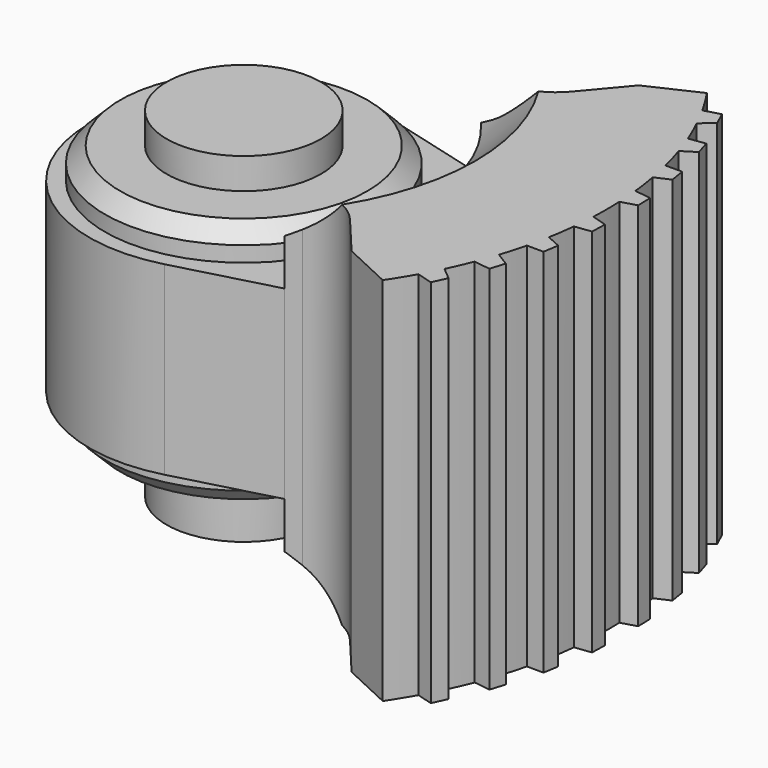
from build123d import *

# Parameters (mm, degrees)
F0_R      = 3.571875
F0_R_2    = 1.984375
F1_DEPTH  = 4.7625
F3_R      = 4.7625
F4_DEPTH  = 6.35
F7_R      = 4.7625
F8_DEPTH  = 4.29937
F9_R      = 3.571875
F10_DEPTH = 3.175
F11_R     = 1.984375
F12_DEPTH = 1.5875
F13_R     = 1.984375
F14_DEPTH = 2.38125
F15_R     = 1.5875
F16_DEPTH = 8.64375
F17_SIZE2 = 1.190625
F17_SIZE  = 1.190625
F18_SIZE2 = 1.190625
F18_SIZE  = 1.190625
F19_SIZE2 = 0.396875
F19_SIZE  = 0.396875
F20_SIZE2 = 0.396875
F20_SIZE  = 0.396875


with BuildPart() as f1:
    # F0 (on Top) → F1 (new body, symmetric)
    with BuildSketch(Plane.XY):
        with BuildLine():
            ThreePointArc((1.0271880853, 3.8335181231), (-3.96875, 0), (1.0271880853, -3.8335181231))
            ThreePointArc((1.0271880853, -3.8335181231), (3.1486210693, -2.4160219214), (3.96875, 0))
            ThreePointArc((3.96875, 0), (3.1486210693, 2.4160219214), (1.0271880853, 3.8335181231))
        make_face()
        Circle(F0_R, mode=Mode.SUBTRACT)
        Circle(F0_R)
        Circle(F0_R_2, mode=Mode.SUBTRACT)
        with BuildLine():
            ThreePointArc((3.5700563335, 3.1521586295), (4.7625, 0), (3.5700563335, -3.1521586295))
            Line((3.5700563335, -3.1521586295), (3.952808412, -3.0496005192))
            ThreePointArc((3.952808412, -3.0496005192), (4.8410541028, -3.0689821091), (5.5797791996, -3.562582438))
            Line((5.5797791996, -3.562582438), (6.4602323301, -4.6118656194))
            ThreePointArc((6.4602323301, -4.6118656194), (7.9375, 0), (6.4602323301, 4.6118656194))
            Line((6.4602323301, 4.6118656194), (5.5797791996, 3.562582438))
            ThreePointArc((5.5797791996, 3.562582438), (4.8410541028, 3.0689821091), (3.952808412, 3.0496005192))
            Line((3.952808412, 3.0496005192), (3.5700563335, 3.1521586295))
        make_face()
        with BuildLine():
            ThreePointArc((6.4602323301, 4.6118656194), (7.9375, 0), (6.4602323301, -4.6118656194))
            Line((6.4602323301, -4.6118656194), (7.7374098345, -5.2074232706))
            ThreePointArc((7.7374098345, -5.2074232706), (7.9432604057, -4.8876765639), (8.1359052848, -4.5598040816))
            ThreePointArc((8.1359052848, -4.5598040816), (8.2719379074, -4.3081099477), (8.4001864325, -4.0523617762))
            ThreePointArc((8.4001864325, -4.0523617762), (8.5434987657, -3.7407749072), (8.6752581872, -3.4241295905))
            ThreePointArc((8.6752581872, -3.4241295905), (8.7762030429, -3.1564264946), (8.8688892752, -2.8857531236))
            ThreePointArc((8.8688892752, -2.8857531236), (8.9689923796, -2.5577223777), (9.0569672002, -2.226232962))
            ThreePointArc((9.0569672002, -2.226232962), (9.1209899529, -1.9473855153), (9.1764296292, -1.6667055307))
            ThreePointArc((9.1764296292, -1.6667055307), (9.2315044647, -1.3281917728), (9.2740960354, -0.987881973))
            ThreePointArc((9.2740960354, -0.987881973), (9.3000332851, -0.7029572979), (9.3172189742, -0.4173711225))
            ThreePointArc((9.3172189742, -0.4173711225), (9.3265625, 0), (9.3172189742, 0.4173711225))
            ThreePointArc((9.3172189742, 0.4173711225), (9.3000332851, 0.7029572979), (9.2740960354, 0.987881973))
            ThreePointArc((9.2740960354, 0.987881973), (9.2315044647, 1.3281917728), (9.1764296292, 1.6667055307))
            ThreePointArc((9.1764296292, 1.6667055307), (9.1209899529, 1.9473855153), (9.0569672002, 2.226232962))
            ThreePointArc((9.0569672002, 2.226232962), (8.9689923796, 2.5577223777), (8.8688892752, 2.8857531236))
            ThreePointArc((8.8688892752, 2.8857531236), (8.7762030429, 3.1564264946), (8.6752581872, 3.4241295905))
            ThreePointArc((8.6752581872, 3.4241295905), (8.5434987657, 3.7407749072), (8.4001864325, 4.0523617762))
            ThreePointArc((8.4001864325, 4.0523617762), (8.2719379074, 4.3081099477), (8.1359052848, 4.5598040816))
            ThreePointArc((8.1359052848, 4.5598040816), (7.9432604057, 4.8876765639), (7.7374098345, 5.2074232706))
            Line((7.7374098345, 5.2074232706), (6.4602323301, 4.6118656194))
        make_face()
        with BuildLine():
            ThreePointArc((6.4602323301, 4.6118656194), (7.9375, 0), (6.4602323301, -4.6118656194))
            Line((6.4602323301, -4.6118656194), (7.7374098345, -5.2074232706))
            ThreePointArc((7.7374098345, -5.2074232706), (7.9432604057, -4.8876765639), (8.1359052848, -4.5598040816))
            ThreePointArc((8.1359052848, -4.5598040816), (8.2719379074, -4.3081099477), (8.4001864325, -4.0523617762))
            ThreePointArc((8.4001864325, -4.0523617762), (8.5434987657, -3.7407749072), (8.6752581872, -3.4241295905))
            ThreePointArc((8.6752581872, -3.4241295905), (8.7762030429, -3.1564264946), (8.8688892752, -2.8857531236))
            ThreePointArc((8.8688892752, -2.8857531236), (8.9689923796, -2.5577223777), (9.0569672002, -2.226232962))
            ThreePointArc((9.0569672002, -2.226232962), (9.1209899529, -1.9473855153), (9.1764296292, -1.6667055307))
            ThreePointArc((9.1764296292, -1.6667055307), (9.2315044647, -1.3281917728), (9.2740960354, -0.987881973))
            ThreePointArc((9.2740960354, -0.987881973), (9.3000332851, -0.7029572979), (9.3172189742, -0.4173711225))
            ThreePointArc((9.3172189742, -0.4173711225), (9.3265625, 0), (9.3172189742, 0.4173711225))
            ThreePointArc((9.3172189742, 0.4173711225), (9.3000332851, 0.7029572979), (9.2740960354, 0.987881973))
            ThreePointArc((9.2740960354, 0.987881973), (9.2315044647, 1.3281917728), (9.1764296292, 1.6667055307))
            ThreePointArc((9.1764296292, 1.6667055307), (9.1209899529, 1.9473855153), (9.0569672002, 2.226232962))
            ThreePointArc((9.0569672002, 2.226232962), (8.9689923796, 2.5577223777), (8.8688892752, 2.8857531236))
            ThreePointArc((8.8688892752, 2.8857531236), (8.7762030429, 3.1564264946), (8.6752581872, 3.4241295905))
            ThreePointArc((8.6752581872, 3.4241295905), (8.5434987657, 3.7407749072), (8.4001864325, 4.0523617762))
            ThreePointArc((8.4001864325, 4.0523617762), (8.2719379074, 4.3081099477), (8.1359052848, 4.5598040816))
            ThreePointArc((8.1359052848, 4.5598040816), (7.9432604057, 4.8876765639), (7.7374098345, 5.2074232706))
            Line((7.7374098345, 5.2074232706), (6.4602323301, 4.6118656194))
        make_face()
        with BuildLine():
            ThreePointArc((6.4602323301, 4.6118656194), (7.9375, 0), (6.4602323301, -4.6118656194))
            Line((6.4602323301, -4.6118656194), (7.7374098345, -5.2074232706))
            ThreePointArc((7.7374098345, -5.2074232706), (7.9432604057, -4.8876765639), (8.1359052848, -4.5598040816))
            ThreePointArc((8.1359052848, -4.5598040816), (8.2719379074, -4.3081099477), (8.4001864325, -4.0523617762))
            ThreePointArc((8.4001864325, -4.0523617762), (8.5434987657, -3.7407749072), (8.6752581872, -3.4241295905))
            ThreePointArc((8.6752581872, -3.4241295905), (8.7762030429, -3.1564264946), (8.8688892752, -2.8857531236))
            ThreePointArc((8.8688892752, -2.8857531236), (8.9689923796, -2.5577223777), (9.0569672002, -2.226232962))
            ThreePointArc((9.0569672002, -2.226232962), (9.1209899529, -1.9473855153), (9.1764296292, -1.6667055307))
            ThreePointArc((9.1764296292, -1.6667055307), (9.2315044647, -1.3281917728), (9.2740960354, -0.987881973))
            ThreePointArc((9.2740960354, -0.987881973), (9.3000332851, -0.7029572979), (9.3172189742, -0.4173711225))
            ThreePointArc((9.3172189742, -0.4173711225), (9.3265625, 0), (9.3172189742, 0.4173711225))
            ThreePointArc((9.3172189742, 0.4173711225), (9.3000332851, 0.7029572979), (9.2740960354, 0.987881973))
            ThreePointArc((9.2740960354, 0.987881973), (9.2315044647, 1.3281917728), (9.1764296292, 1.6667055307))
            ThreePointArc((9.1764296292, 1.6667055307), (9.1209899529, 1.9473855153), (9.0569672002, 2.226232962))
            ThreePointArc((9.0569672002, 2.226232962), (8.9689923796, 2.5577223777), (8.8688892752, 2.8857531236))
            ThreePointArc((8.8688892752, 2.8857531236), (8.7762030429, 3.1564264946), (8.6752581872, 3.4241295905))
            ThreePointArc((8.6752581872, 3.4241295905), (8.5434987657, 3.7407749072), (8.4001864325, 4.0523617762))
            ThreePointArc((8.4001864325, 4.0523617762), (8.2719379074, 4.3081099477), (8.1359052848, 4.5598040816))
            ThreePointArc((8.1359052848, 4.5598040816), (7.9432604057, 4.8876765639), (7.7374098345, 5.2074232706))
            Line((7.7374098345, 5.2074232706), (6.4602323301, 4.6118656194))
        make_face()
        with BuildLine():
            ThreePointArc((6.4602323301, 4.6118656194), (7.9375, 0), (6.4602323301, -4.6118656194))
            Line((6.4602323301, -4.6118656194), (7.7374098345, -5.2074232706))
            ThreePointArc((7.7374098345, -5.2074232706), (7.9432604057, -4.8876765639), (8.1359052848, -4.5598040816))
            ThreePointArc((8.1359052848, -4.5598040816), (8.2719379074, -4.3081099477), (8.4001864325, -4.0523617762))
            ThreePointArc((8.4001864325, -4.0523617762), (8.5434987657, -3.7407749072), (8.6752581872, -3.4241295905))
            ThreePointArc((8.6752581872, -3.4241295905), (8.7762030429, -3.1564264946), (8.8688892752, -2.8857531236))
            ThreePointArc((8.8688892752, -2.8857531236), (8.9689923796, -2.5577223777), (9.0569672002, -2.226232962))
            ThreePointArc((9.0569672002, -2.226232962), (9.1209899529, -1.9473855153), (9.1764296292, -1.6667055307))
            ThreePointArc((9.1764296292, -1.6667055307), (9.2315044647, -1.3281917728), (9.2740960354, -0.987881973))
            ThreePointArc((9.2740960354, -0.987881973), (9.3000332851, -0.7029572979), (9.3172189742, -0.4173711225))
            ThreePointArc((9.3172189742, -0.4173711225), (9.3265625, 0), (9.3172189742, 0.4173711225))
            ThreePointArc((9.3172189742, 0.4173711225), (9.3000332851, 0.7029572979), (9.2740960354, 0.987881973))
            ThreePointArc((9.2740960354, 0.987881973), (9.2315044647, 1.3281917728), (9.1764296292, 1.6667055307))
            ThreePointArc((9.1764296292, 1.6667055307), (9.1209899529, 1.9473855153), (9.0569672002, 2.226232962))
            ThreePointArc((9.0569672002, 2.226232962), (8.9689923796, 2.5577223777), (8.8688892752, 2.8857531236))
            ThreePointArc((8.8688892752, 2.8857531236), (8.7762030429, 3.1564264946), (8.6752581872, 3.4241295905))
            ThreePointArc((8.6752581872, 3.4241295905), (8.5434987657, 3.7407749072), (8.4001864325, 4.0523617762))
            ThreePointArc((8.4001864325, 4.0523617762), (8.2719379074, 4.3081099477), (8.1359052848, 4.5598040816))
            ThreePointArc((8.1359052848, 4.5598040816), (7.9432604057, 4.8876765639), (7.7374098345, 5.2074232706))
            Line((7.7374098345, 5.2074232706), (6.4602323301, 4.6118656194))
        make_face()
        with BuildLine():
            ThreePointArc((6.4602323301, 4.6118656194), (7.9375, 0), (6.4602323301, -4.6118656194))
            Line((6.4602323301, -4.6118656194), (7.7374098345, -5.2074232706))
            ThreePointArc((7.7374098345, -5.2074232706), (7.9432604057, -4.8876765639), (8.1359052848, -4.5598040816))
            ThreePointArc((8.1359052848, -4.5598040816), (8.2719379074, -4.3081099477), (8.4001864325, -4.0523617762))
            ThreePointArc((8.4001864325, -4.0523617762), (8.5434987657, -3.7407749072), (8.6752581872, -3.4241295905))
            ThreePointArc((8.6752581872, -3.4241295905), (8.7762030429, -3.1564264946), (8.8688892752, -2.8857531236))
            ThreePointArc((8.8688892752, -2.8857531236), (8.9689923796, -2.5577223777), (9.0569672002, -2.226232962))
            ThreePointArc((9.0569672002, -2.226232962), (9.1209899529, -1.9473855153), (9.1764296292, -1.6667055307))
            ThreePointArc((9.1764296292, -1.6667055307), (9.2315044647, -1.3281917728), (9.2740960354, -0.987881973))
            ThreePointArc((9.2740960354, -0.987881973), (9.3000332851, -0.7029572979), (9.3172189742, -0.4173711225))
            ThreePointArc((9.3172189742, -0.4173711225), (9.3265625, 0), (9.3172189742, 0.4173711225))
            ThreePointArc((9.3172189742, 0.4173711225), (9.3000332851, 0.7029572979), (9.2740960354, 0.987881973))
            ThreePointArc((9.2740960354, 0.987881973), (9.2315044647, 1.3281917728), (9.1764296292, 1.6667055307))
            ThreePointArc((9.1764296292, 1.6667055307), (9.1209899529, 1.9473855153), (9.0569672002, 2.226232962))
            ThreePointArc((9.0569672002, 2.226232962), (8.9689923796, 2.5577223777), (8.8688892752, 2.8857531236))
            ThreePointArc((8.8688892752, 2.8857531236), (8.7762030429, 3.1564264946), (8.6752581872, 3.4241295905))
            ThreePointArc((8.6752581872, 3.4241295905), (8.5434987657, 3.7407749072), (8.4001864325, 4.0523617762))
            ThreePointArc((8.4001864325, 4.0523617762), (8.2719379074, 4.3081099477), (8.1359052848, 4.5598040816))
            ThreePointArc((8.1359052848, 4.5598040816), (7.9432604057, 4.8876765639), (7.7374098345, 5.2074232706))
            Line((7.7374098345, 5.2074232706), (6.4602323301, 4.6118656194))
        make_face()
        with BuildLine():
            ThreePointArc((6.4602323301, 4.6118656194), (7.9375, 0), (6.4602323301, -4.6118656194))
            Line((6.4602323301, -4.6118656194), (7.7374098345, -5.2074232706))
            ThreePointArc((7.7374098345, -5.2074232706), (7.9432604057, -4.8876765639), (8.1359052848, -4.5598040816))
            ThreePointArc((8.1359052848, -4.5598040816), (8.2719379074, -4.3081099477), (8.4001864325, -4.0523617762))
            ThreePointArc((8.4001864325, -4.0523617762), (8.5434987657, -3.7407749072), (8.6752581872, -3.4241295905))
            ThreePointArc((8.6752581872, -3.4241295905), (8.7762030429, -3.1564264946), (8.8688892752, -2.8857531236))
            ThreePointArc((8.8688892752, -2.8857531236), (8.9689923796, -2.5577223777), (9.0569672002, -2.226232962))
            ThreePointArc((9.0569672002, -2.226232962), (9.1209899529, -1.9473855153), (9.1764296292, -1.6667055307))
            ThreePointArc((9.1764296292, -1.6667055307), (9.2315044647, -1.3281917728), (9.2740960354, -0.987881973))
            ThreePointArc((9.2740960354, -0.987881973), (9.3000332851, -0.7029572979), (9.3172189742, -0.4173711225))
            ThreePointArc((9.3172189742, -0.4173711225), (9.3265625, 0), (9.3172189742, 0.4173711225))
            ThreePointArc((9.3172189742, 0.4173711225), (9.3000332851, 0.7029572979), (9.2740960354, 0.987881973))
            ThreePointArc((9.2740960354, 0.987881973), (9.2315044647, 1.3281917728), (9.1764296292, 1.6667055307))
            ThreePointArc((9.1764296292, 1.6667055307), (9.1209899529, 1.9473855153), (9.0569672002, 2.226232962))
            ThreePointArc((9.0569672002, 2.226232962), (8.9689923796, 2.5577223777), (8.8688892752, 2.8857531236))
            ThreePointArc((8.8688892752, 2.8857531236), (8.7762030429, 3.1564264946), (8.6752581872, 3.4241295905))
            ThreePointArc((8.6752581872, 3.4241295905), (8.5434987657, 3.7407749072), (8.4001864325, 4.0523617762))
            ThreePointArc((8.4001864325, 4.0523617762), (8.2719379074, 4.3081099477), (8.1359052848, 4.5598040816))
            ThreePointArc((8.1359052848, 4.5598040816), (7.9432604057, 4.8876765639), (7.7374098345, 5.2074232706))
            Line((7.7374098345, 5.2074232706), (6.4602323301, 4.6118656194))
        make_face()
        with BuildLine():
            ThreePointArc((6.4602323301, 4.6118656194), (7.9375, 0), (6.4602323301, -4.6118656194))
            Line((6.4602323301, -4.6118656194), (7.7374098345, -5.2074232706))
            ThreePointArc((7.7374098345, -5.2074232706), (7.9432604057, -4.8876765639), (8.1359052848, -4.5598040816))
            ThreePointArc((8.1359052848, -4.5598040816), (8.2719379074, -4.3081099477), (8.4001864325, -4.0523617762))
            ThreePointArc((8.4001864325, -4.0523617762), (8.5434987657, -3.7407749072), (8.6752581872, -3.4241295905))
            ThreePointArc((8.6752581872, -3.4241295905), (8.7762030429, -3.1564264946), (8.8688892752, -2.8857531236))
            ThreePointArc((8.8688892752, -2.8857531236), (8.9689923796, -2.5577223777), (9.0569672002, -2.226232962))
            ThreePointArc((9.0569672002, -2.226232962), (9.1209899529, -1.9473855153), (9.1764296292, -1.6667055307))
            ThreePointArc((9.1764296292, -1.6667055307), (9.2315044647, -1.3281917728), (9.2740960354, -0.987881973))
            ThreePointArc((9.2740960354, -0.987881973), (9.3000332851, -0.7029572979), (9.3172189742, -0.4173711225))
            ThreePointArc((9.3172189742, -0.4173711225), (9.3265625, 0), (9.3172189742, 0.4173711225))
            ThreePointArc((9.3172189742, 0.4173711225), (9.3000332851, 0.7029572979), (9.2740960354, 0.987881973))
            ThreePointArc((9.2740960354, 0.987881973), (9.2315044647, 1.3281917728), (9.1764296292, 1.6667055307))
            ThreePointArc((9.1764296292, 1.6667055307), (9.1209899529, 1.9473855153), (9.0569672002, 2.226232962))
            ThreePointArc((9.0569672002, 2.226232962), (8.9689923796, 2.5577223777), (8.8688892752, 2.8857531236))
            ThreePointArc((8.8688892752, 2.8857531236), (8.7762030429, 3.1564264946), (8.6752581872, 3.4241295905))
            ThreePointArc((8.6752581872, 3.4241295905), (8.5434987657, 3.7407749072), (8.4001864325, 4.0523617762))
            ThreePointArc((8.4001864325, 4.0523617762), (8.2719379074, 4.3081099477), (8.1359052848, 4.5598040816))
            ThreePointArc((8.1359052848, 4.5598040816), (7.9432604057, 4.8876765639), (7.7374098345, 5.2074232706))
            Line((7.7374098345, 5.2074232706), (6.4602323301, 4.6118656194))
        make_face()
        Circle(F0_R_2)
        with BuildLine():
            Line((1.0271880853, -3.8335181231), (3.5700563335, -3.1521586295))
            ThreePointArc((3.5700563335, -3.1521586295), (4.7625, 0), (3.5700563335, 3.1521586295))
            Line((3.5700563335, 3.1521586295), (1.0271880853, 3.8335181231))
            ThreePointArc((1.0271880853, 3.8335181231), (3.1486210693, 2.4160219214), (3.96875, 0))
            ThreePointArc((3.96875, 0), (3.1486210693, -2.4160219214), (1.0271880853, -3.8335181231))
        make_face()
        with BuildLine():
            ThreePointArc((8.4001864325, -4.0523617762), (8.2719379074, -4.3081099477), (8.1359052848, -4.5598040816))
            Line((8.1359052848, -4.5598040816), (8.5478055324, -4.6772757471))
            Line((8.5478055324, -4.6772757471), (8.7152809502, -4.3149690254))
            Line((8.7152809502, -4.3149690254), (8.4001864325, -4.0523617762))
        make_face()
        with BuildLine():
            ThreePointArc((8.8688892752, -2.8857531236), (8.7762030429, -3.1564264946), (8.6752581872, -3.4241295905))
            Line((8.6752581872, -3.4241295905), (9.0992154205, -3.4851350856))
            Line((9.0992154205, -3.4851350856), (9.216440462, -3.1035954864))
            Line((9.216440462, -3.1035954864), (8.8688892752, -2.8857531236))
        make_face()
        with BuildLine():
            ThreePointArc((9.1764296292, -1.6667055307), (9.1209899529, -1.9473855153), (9.0569672002, -2.226232962))
            Line((9.0569672002, -2.226232962), (9.4852774103, -2.2296637155))
            Line((9.4852774103, -2.2296637155), (9.5501219011, -1.8358244486))
            Line((9.5501219011, -1.8358244486), (9.1764296292, -1.6667055307))
        make_face()
        with BuildLine():
            ThreePointArc((9.3172189742, -0.4173711225), (9.3000332851, -0.7029572979), (9.2740960354, -0.987881973))
            Line((9.2740960354, -0.987881973), (9.6989761124, -0.9336756422))
            Line((9.6989761124, -0.9336756422), (9.7102617202, -0.5346934231))
            Line((9.7102617202, -0.5346934231), (9.3172189742, -0.4173711225))
        make_face()
        with BuildLine():
            Line((9.6989761124, 0.9336756422), (9.2740960354, 0.987881973))
            ThreePointArc((9.2740960354, 0.987881973), (9.3000332851, 0.7029572979), (9.3172189742, 0.4173711225))
            Line((9.3172189742, 0.4173711225), (9.7102617202, 0.5346934231))
            Line((9.7102617202, 0.5346934231), (9.6989761124, 0.9336756422))
        make_face()
        with BuildLine():
            Line((9.4852774103, 2.2296637155), (9.0569672002, 2.226232962))
            ThreePointArc((9.0569672002, 2.226232962), (9.1209899529, 1.9473855153), (9.1764296292, 1.6667055307))
            Line((9.1764296292, 1.6667055307), (9.5501219011, 1.8358244486))
            Line((9.5501219011, 1.8358244486), (9.4852774103, 2.2296637155))
        make_face()
        with BuildLine():
            Line((9.0992154205, 3.4851350856), (8.6752581872, 3.4241295905))
            ThreePointArc((8.6752581872, 3.4241295905), (8.7762030429, 3.1564264946), (8.8688892752, 2.8857531236))
            Line((8.8688892752, 2.8857531236), (9.216440462, 3.1035954864))
            Line((9.216440462, 3.1035954864), (9.0992154205, 3.4851350856))
        make_face()
        with BuildLine():
            Line((8.5478055324, 4.6772757471), (8.1359052848, 4.5598040816))
            ThreePointArc((8.1359052848, 4.5598040816), (8.2719379074, 4.3081099477), (8.4001864325, 4.0523617762))
            Line((8.4001864325, 4.0523617762), (8.7152809502, 4.3149690254))
            Line((8.7152809502, 4.3149690254), (8.5478055324, 4.6772757471))
        make_face()
    extrude(amount=F1_DEPTH, both=True)

    # F3 (on offset) → F4 (cut)
    with BuildSketch(Plane.XY.offset(2.38125)):
        Circle(F3_R)
    extrude(amount=F4_DEPTH, mode=Mode.SUBTRACT)

    # F7 (on offset) → F8 (cut)
    with BuildSketch(Plane(origin=(0, 0, -2.38125), x_dir=(1, 0, 0), z_dir=(0, 0, -1))):
        Circle(F7_R)
    extrude(amount=F8_DEPTH, mode=Mode.SUBTRACT)

    # F9 (on offset) → F10 (join, symmetric)
    with BuildSketch(Plane(origin=(0, 0, 0), x_dir=(1, 0, 0), z_dir=(0, 0, -1))):
        Circle(F9_R)
    extrude(amount=F10_DEPTH, both=True)

    # F11 (on offset) → F12 (join)
    with BuildSketch(Plane.XY.offset(2.38125)):
        Circle(F11_R)
    extrude(amount=F12_DEPTH)

    # F13 (on offset) → F14 (join)
    with BuildSketch(Plane(origin=(0, 0, -2.38125), x_dir=(1, 0, 0), z_dir=(0, 0, -1))):
        Circle(F13_R)
    extrude(amount=F14_DEPTH)

    # F15 (on Right) → F16 (cut)
    with BuildSketch(Plane.YZ):
        Circle(F15_R)
    extrude(amount=-F16_DEPTH, mode=Mode.SUBTRACT)

    # F17
    f17_edges = [f1.edges().sort_by_distance(p)[0] for p in [
        (4.7625, 0, 4.7625),
    ]]
    chamfer(f17_edges, length=F17_SIZE, length2=F17_SIZE2)

    # F18
    f18_edges = [f1.edges().sort_by_distance(p)[0] for p in [
        (4.7625, 0, -4.7625),
    ]]
    chamfer(f18_edges, length=F18_SIZE, length2=F18_SIZE2)

    # F19
    f19_edges = [f1.edges().sort_by_distance(p)[0] for p in [
        (-3.571875, 0, 3.175),
    ]]
    chamfer(f19_edges, length=F19_SIZE, length2=F19_SIZE2)

    # F20
    f20_edges = [f1.edges().sort_by_distance(p)[0] for p in [
        (-3.571875, 0, -3.175),
    ]]
    chamfer(f20_edges, length=F20_SIZE, length2=F20_SIZE2)


solid = f1.part
